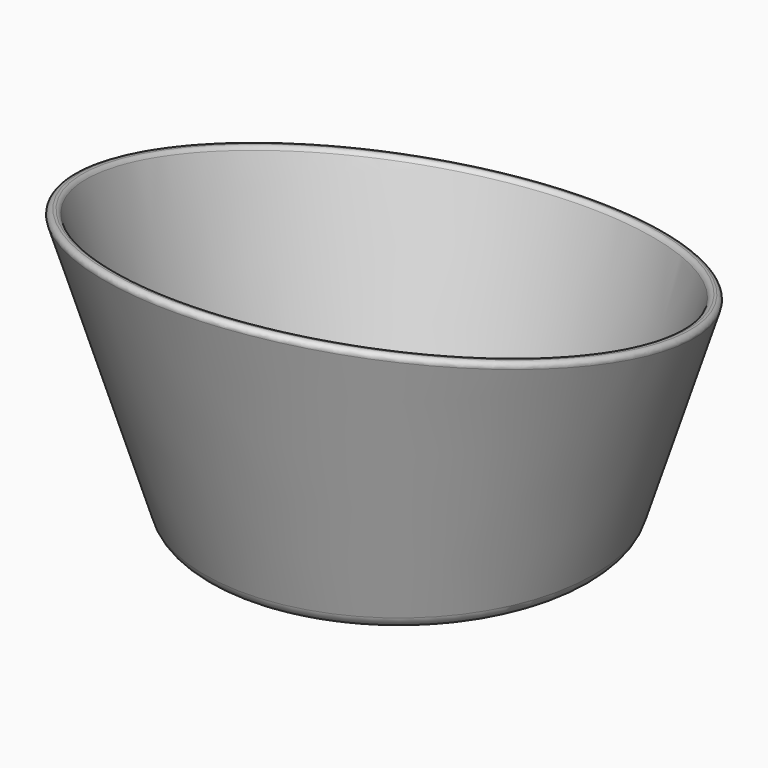
from build123d import *

# Parameters (mm, degrees)
EXTRUDE_DEPTH = 750
SKETCH001_R   = 750
SKETCH_R      = 500
THICKNESS_T   = -30
FILLET_1_R    = 50
FILLET_2_R    = 12


with BuildPart() as extrude_body:
    # Sketch002 → Extrude (new body, symmetric)
    with BuildSketch(Plane.YZ):
        Polygon((-750, 800), (-750, 0), (750, 0), (750, 450), align=None)
    extrude(amount=EXTRUDE_DEPTH, both=True)


with BuildPart() as fillet_body:
    # Sketch001 → Loft section 0
    with BuildSketch(Plane.XY.offset(800)):
        Circle(SKETCH001_R)
    # Sketch → Loft section 1
    with BuildSketch(Plane.XY):
        Circle(SKETCH_R)
    loft()

    # Thickness
    thickness_openings = [fillet_body.faces().sort_by_distance(p)[0] for p in [
        (0, 0, 800),
    ]]
    offset(amount=THICKNESS_T, openings=thickness_openings, kind=Kind.INTERSECTION)

    # Common: intersect Extrude body
    add(extrude_body.part, mode=Mode.INTERSECT)

    # Fillet 1
    fillet_1_edges = [fillet_body.edges().sort_by_distance(p)[0] for p in [
        (-500, 0, 0),
    ]]
    fillet(fillet_1_edges, radius=FILLET_1_R)

    # Fillet 2
    fillet_2_edges = [fillet_body.edges().sort_by_distance(p)[0] for p in [
        (-514.311014, 420.952843, 526.77767),
        (514.311013, -522.894591, 747.008738),
        (-663.881777, -97.33354, 647.711159),
    ]]
    fillet(fillet_2_edges, radius=FILLET_2_R)


solid = fillet_body.part
